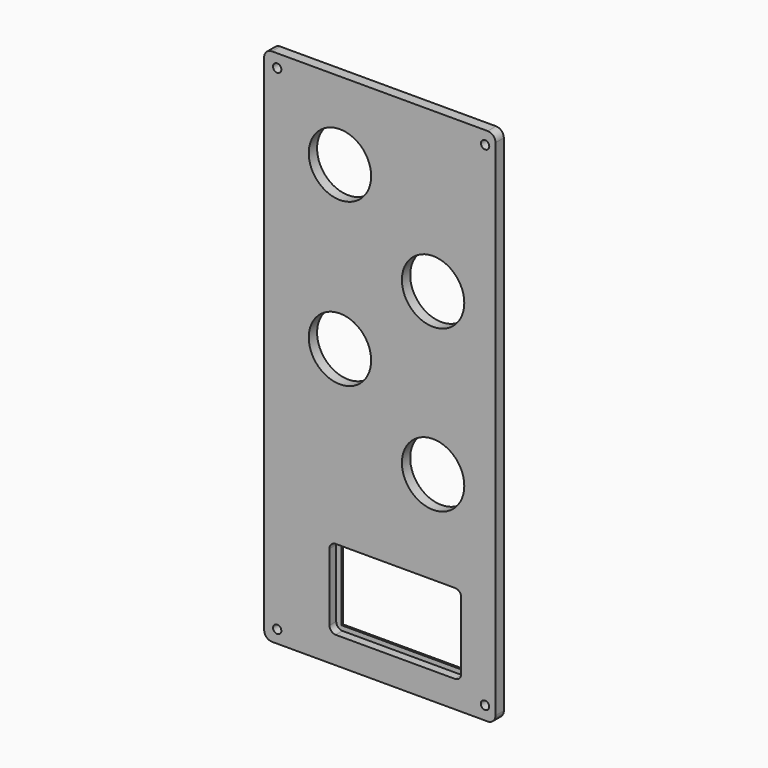
from build123d import *

# Parameters (mm, degrees)
F0_W     = 89
F0_H     = 200
F0_R     = 1.603513
F0_W_2   = 46.7
F0_H_2   = 27.2
F0_R_2   = 12
F1_DEPTH = 4
F2_R     = 3
F3_W     = 50.7
F3_H     = 30.8
F4_DEPTH = 3.25
F5_R     = 2.4


with BuildPart() as f1:
    # F0 (on Front) → F1 (new body)
    with BuildSketch(Plane.XZ):
        with Locations((22.076878, 58.203301)):
            Rectangle(F0_W, F0_H)
        with Locations((-17.421687, -36.900826)):
            Circle(F0_R, mode=Mode.SUBTRACT)
        with Locations((28.044092, -16.062529)):
            Rectangle(F0_W_2, F0_H_2, mode=Mode.SUBTRACT)
        with Locations((62.523074, -36.637016)):
            Circle(F0_R, mode=Mode.SUBTRACT)
        with Locations((42.562623, 35.063349)):
            Circle(F0_R_2, mode=Mode.SUBTRACT)
        with Locations((6.728478, 65.911161)):
            Circle(F0_R_2, mode=Mode.SUBTRACT)
        with Locations((-17.423122, 153.203301)):
            Circle(F0_R, mode=Mode.SUBTRACT)
        with Locations((6.728478, 128.332034)):
            Circle(F0_R_2, mode=Mode.SUBTRACT)
        with Locations((42.562623, 97.028293)):
            Circle(F0_R_2, mode=Mode.SUBTRACT)
        with Locations((62.576878, 153.203301)):
            Circle(F0_R, mode=Mode.SUBTRACT)
    extrude(amount=F1_DEPTH)

    # F2
    f2_edges = [f1.edges().sort_by_distance(p)[0] for p in [
        (-22.423122, -2, 158.203301),
        (66.576878, -2, 158.203301),
        (66.576878, -2, -41.796699),
        (-22.423122, -2, -41.796699),
    ]]
    fillet(f2_edges, radius=F2_R)

    # F3 (on face) → F4 (cut)
    with BuildSketch(Plane.XZ.offset(4)):
        with Locations((28.044092, -16.062529)):
            Rectangle(F3_W, F3_H)
    extrude(amount=-F4_DEPTH, mode=Mode.SUBTRACT)

    # F5
    f5_edges = [f1.edges().sort_by_distance(p)[0] for p in [
        (2.694092, -2.375, -0.662529),
        (53.394092, -2.375, -31.462529),
        (2.694092, -2.375, -31.462529),
        (53.394092, -2.375, -0.662529),
    ]]
    fillet(f5_edges, radius=F5_R)


solid = f1.part
